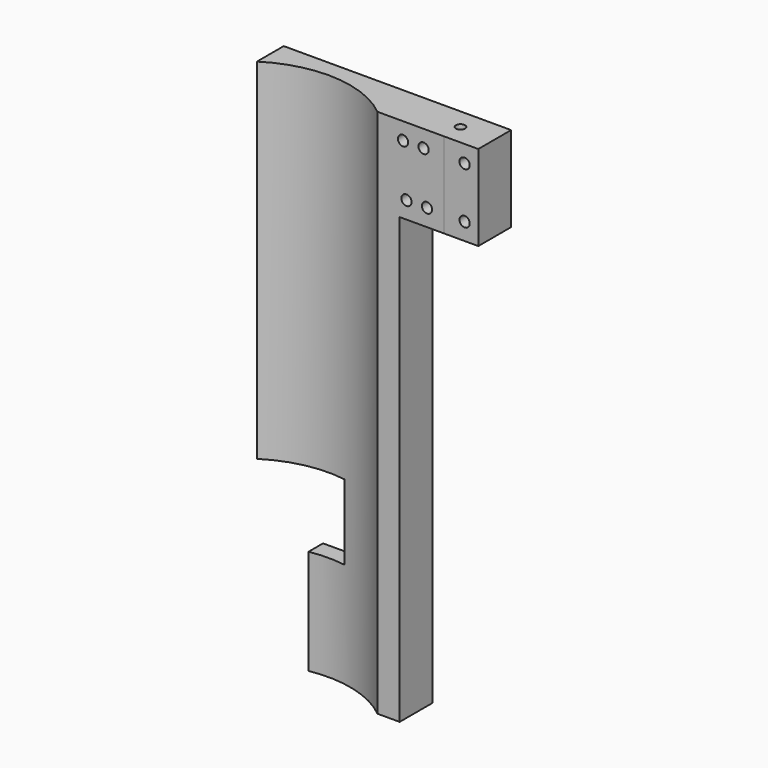
from build123d import *

# Parameters (mm, degrees)
PAD_DEPTH            = 155
SKETCH001_R          = 1.5
SKETCH001_W          = 13
SKETCH001_H          = 130
POCKET_DEPTH         = 12.001
SKETCH002_W          = 5.583172
SKETCH002_H          = 23.950112
POCKET001_DEPTH      = 25.001
POCKET001_DEPTH_BACK = -130.001
SKETCH003_W          = 22
SKETCH003_H          = 22
POCKET002_DEPTH      = 12.001
SKETCH004_W          = 11.5
SKETCH004_H          = 12.924639
POCKET003_DEPTH      = 31
SKETCH005_W          = 12
SKETCH005_H          = 25
PAD001_DEPTH         = 10
SKETCH006_R          = 1.35
POCKET004_DEPTH      = 155.001
SKETCH007_R          = 1.5
POCKET005_DEPTH      = 12.001003


with BuildPart() as part:
    # Sketch → Pad (new body)
    with BuildSketch(Plane.XY):
        with BuildLine():
            Line((39.5, 4.836187), (-20, 4.836187))
            Line((-20, 4.836187), (-20, -7.163813))
            ThreePointArc((20, -7.163813), (0, 0), (-20, -7.163813))
            Line((20, -7.163813), (39.5, -7.163813))
            Line((39.5, 4.836187), (39.5, -7.163813))
        make_face()
    extrude(amount=PAD_DEPTH)

    # Sketch001 → Pocket (cut, through all)
    with BuildSketch(Plane.XZ.offset(7.163813)):
        with Locations((28.5, 135)):
            Circle(SKETCH001_R)
        with Locations((34.5, 135)):
            Circle(SKETCH001_R)
        with Locations((33, 65)):
            Rectangle(SKETCH001_W, SKETCH001_H)
    extrude(amount=-POCKET_DEPTH, mode=Mode.SUBTRACT)

    # Sketch002 → Pocket001 (cut, two sides)
    with BuildSketch(Plane(origin=(0, 0, 130), x_dir=(1, 0, 0), z_dir=(0, 0, -1))) as pocket001_sk:
        with Locations((-19.791586, -0.240771)):
            Rectangle(SKETCH002_W, SKETCH002_H)
    extrude(amount=-POCKET001_DEPTH, mode=Mode.SUBTRACT)
    extrude(pocket001_sk.sketch, amount=-POCKET001_DEPTH_BACK, mode=Mode.SUBTRACT)

    # Sketch003 → Pocket002 (cut, through all)
    with BuildSketch(Plane(origin=(0, 4.836187, 0), x_dir=(-1, 0, 0), z_dir=(0, 1, 0))):
        with Locations((6, 41.7)):
            Rectangle(SKETCH003_W, SKETCH003_H)
    extrude(amount=-POCKET002_DEPTH, mode=Mode.SUBTRACT)

    # Sketch004 → Pocket003 (cut)
    with BuildSketch(Plane(origin=(0, 0, 0), x_dir=(1, 0, 0), z_dir=(0, 0, -1))):
        with Locations((-11.25, 0.936987)):
            Rectangle(SKETCH004_W, SKETCH004_H)
    extrude(amount=-POCKET003_DEPTH, mode=Mode.SUBTRACT)

    # Sketch005 → Pad001 (new body)
    with BuildSketch(Plane.YZ.offset(39.5)):
        with Locations((-1.16381, 142.5)):
            Rectangle(SKETCH005_W, SKETCH005_H)
    extrude(amount=PAD001_DEPTH)

    # Sketch006 → Pocket004 (cut, through all)
    with BuildSketch(Plane.XY.offset(155)):
        with Locations((39.5, -1.16381)):
            Circle(SKETCH006_R)
    extrude(amount=-POCKET004_DEPTH, mode=Mode.SUBTRACT)

    # Sketch007 → Pocket005 (cut, through all)
    with BuildSketch(Plane.XZ.offset(7.163813)):
        with Locations((27.5, 150)):
            Circle(SKETCH007_R)
        with Locations((33.5, 150)):
            Circle(SKETCH007_R)
        with Locations((45.5, 150)):
            Circle(SKETCH007_R)
        with Locations((45.5, 135)):
            Circle(SKETCH007_R)
    extrude(amount=-POCKET005_DEPTH, mode=Mode.SUBTRACT)


solid = part.part
